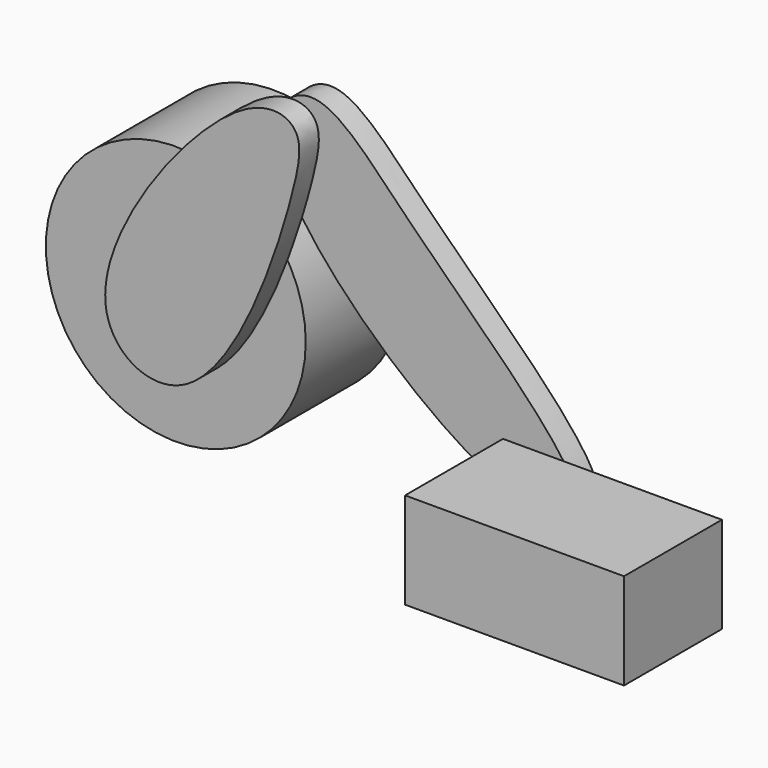
from build123d import *

# Parameters (mm, degrees)
F0_R     = 26.544910058
F4_DEPTH = 25
F5_DEPTH = 5
F6_DEPTH = 5
F3_W     = 44.7191894054
F3_H     = 19.6567885578
F7_DEPTH = 25


with BuildPart() as f4:
    # F0 (on Front) → F4 (new body)
    with BuildSketch(Plane.XZ):
        Circle(F0_R)
    extrude(amount=-F4_DEPTH)


with BuildPart() as f5:
    # F1 (on Front) → F5 (new body)
    with BuildSketch(Plane.XZ):
        with BuildLine():
            add(Edge.make_bspline(
                [(-10.3198131546, -3.3170829993), (-11.8890634952, 10.2962199882), (14.5496274497, 45.2653370113), (30.220868416, 42.3540469249), (28.6289132638, 28.5161384059), (11.0091519267, -22.6871094968), (-9.3976721486, -11.3166893002), (-10.3198131546, -3.3170829993)],
                knots=[0, 0, 0, 0, 0.2887020196, 0.4169001424, 0.5553647315, 0.8303495855, 1, 1, 1, 1], degree=3))
        make_face()
    extrude(amount=F5_DEPTH)

    # F2 (on Front) → F6 (join)
    with BuildSketch(Plane.XZ):
        with BuildLine():
            add(Edge.make_bspline(
                [(20.3939173371, 33.5393920541), (23.0301568367, 18.838800103), (64.8448963321, -19.5200184773), (92.5561306468, -12.747607384), (48.1708967423, 26.191451856), (28.7097349019, 50.21234436), (19.2562946879, 39.8831731718), (20.3939173371, 33.5393920541)],
                knots=[0, 0, 0, 0, 0.2958468696, 0.4263412659, 0.6802785509, 0.8723325026, 1, 1, 1, 1], degree=3))
        make_face()
    extrude(amount=-F6_DEPTH)


with BuildPart() as f7:
    # F3 (on Front) → F7 (new body)
    with BuildSketch(Plane.XZ):
        with Locations((89.192673564, -14.1283161938)):
            Rectangle(F3_W, F3_H)
    extrude(amount=F7_DEPTH)


solid = Compound([f4.part, f5.part, f7.part])
